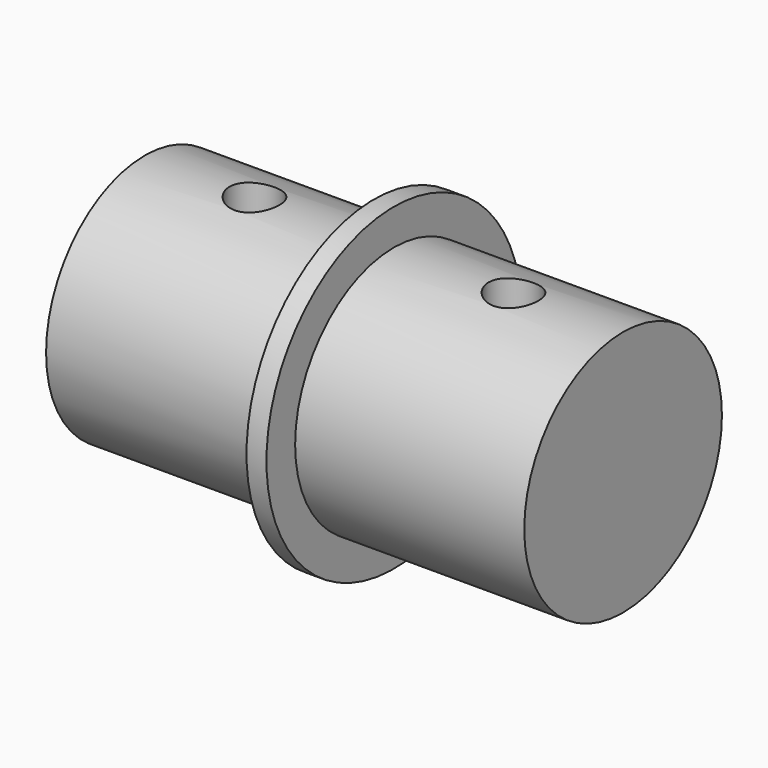
from build123d import *

# Parameters (mm, degrees)
F0_R     = 19.685
F1_DEPTH = 38.1
F2_R     = 25.4
F3_DEPTH = 1.5875
F6_D     = 7.9375


with BuildPart() as f1:
    # F0 (on Right) → F1 (new body, symmetric)
    with BuildSketch(Plane.YZ):
        Circle(F0_R)
    extrude(amount=F1_DEPTH, both=True)

    # F2 (on Right) → F3 (join, symmetric)
    with BuildSketch(Plane.YZ):
        Circle(F2_R)
    extrude(amount=F3_DEPTH, both=True)

    # F6 (through all)
    with Locations(Plane.XY.offset(25.4)):
        with Locations((-20.6375, 0), (20.6375, 0)):
            Hole(F6_D / 2)


solid = f1.part
